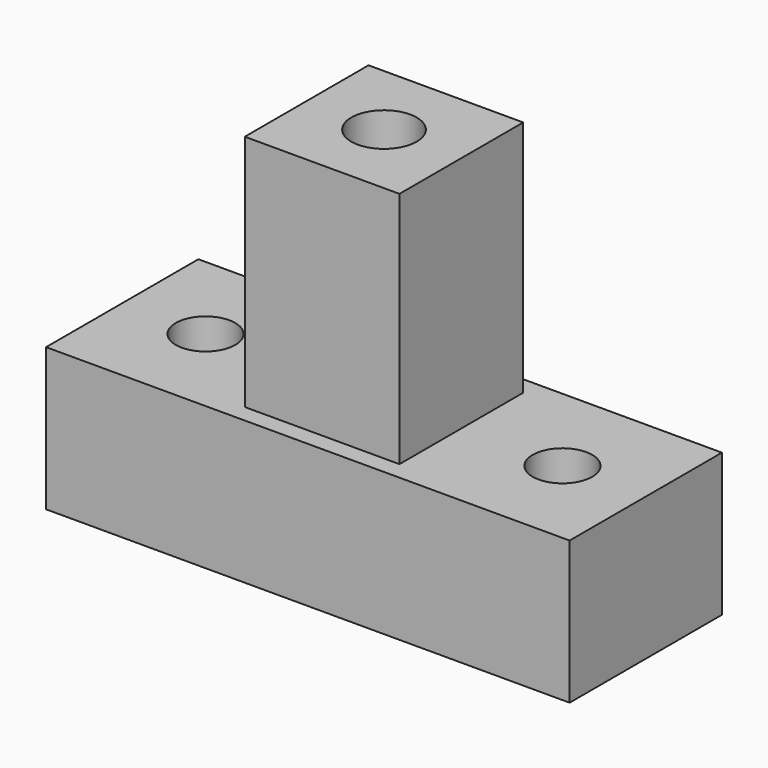
from build123d import *

# Parameters (mm, degrees)
F0_W     = 44
F0_H     = 16
F0_R     = 2.5
F1_DEPTH = 12
F2_W     = 13
F2_H     = 13
F2_R     = 2.75
F3_DEPTH = 20


with BuildPart() as f1:
    # F0 (on Top) → F1 (new body)
    with BuildSketch(Plane.XY):
        Rectangle(F0_W, F0_H)
        with Locations((-15, 0)):
            Circle(F0_R, mode=Mode.SUBTRACT)
        with Locations((15, 0)):
            Circle(F0_R, mode=Mode.SUBTRACT)
    extrude(amount=F1_DEPTH)

    # F2 (on face) → F3 (join)
    with BuildSketch(Plane.XY.offset(12)):
        Rectangle(F2_W, F2_H)
        Circle(F2_R, mode=Mode.SUBTRACT)
    extrude(amount=F3_DEPTH)


solid = f1.part
